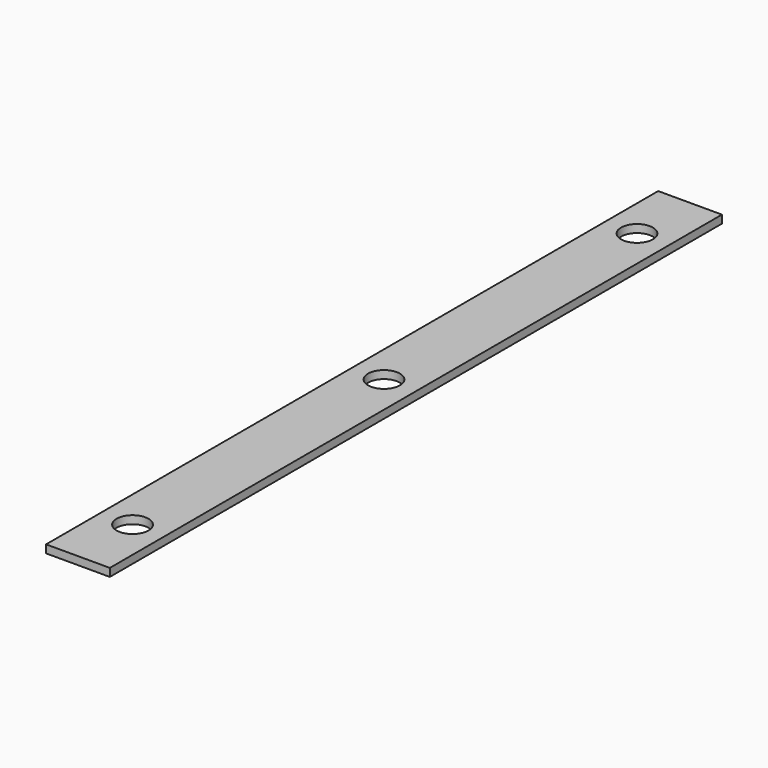
from build123d import *

# Parameters (mm, degrees)
F0_W     = 25.4
F0_H     = 304.8
F1_DEPTH = 3.175
F3_D     = 12.7
F3_DEPTH = 25.4
F3_TIP   = 3.8154649308


with BuildPart() as f1:
    # F0 (on Top) → F1 (new body)
    with BuildSketch(Plane.XY):
        Rectangle(F0_W, F0_H)
    extrude(amount=F1_DEPTH)

    # F3
    with Locations(Plane(origin=(0, 0, 0), x_dir=(1, 0, 0), z_dir=(0, 0, -1))):
        with Locations((0, 0), (0, 125.222), (0, -125.984)):
            Hole(F3_D / 2, depth=F3_DEPTH)
            with Locations((0, 0, -(F3_DEPTH + F3_TIP / 2))):  # 118° drill point
                Cone(0, F3_D / 2, F3_TIP, mode=Mode.SUBTRACT)


solid = f1.part
